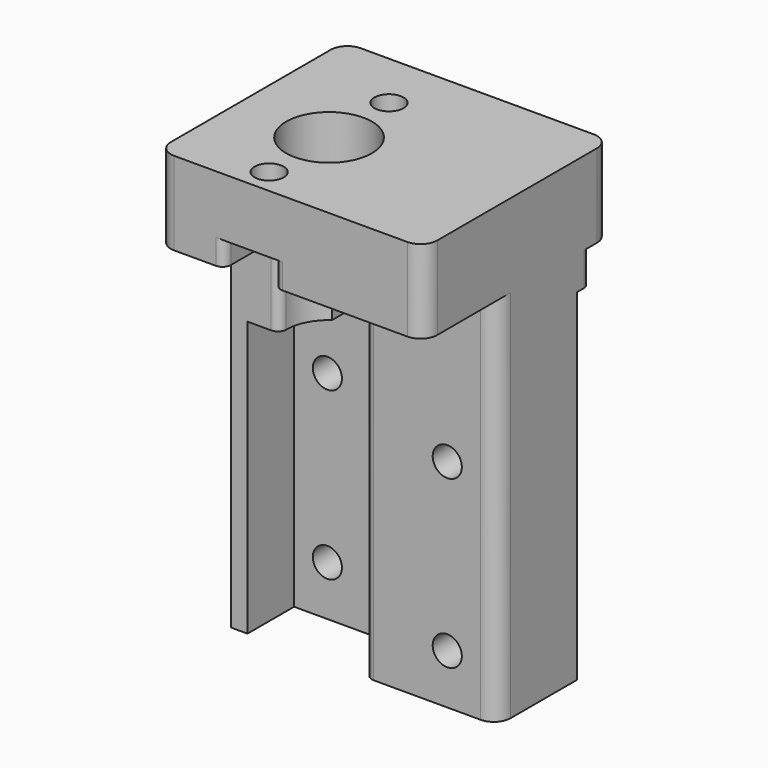
from build123d import *

# Parameters (mm, degrees)
PAD001_DEPTH      = 16
PAD001_DEPTH_BACK = 16
SKETCH014_W       = 15
SKETCH014_H       = 6
POCKET_DEPTH      = 28.001
SKETCH012_R       = 5.15
POCKET001_DEPTH   = 55.001
SKETCH013_R       = 1.75
POCKET002_DEPTH   = 7
SKETCH008_W       = 7.907674
SKETCH008_H       = 14
POCKET003_DEPTH   = 33
SKETCH007_R       = 1.75
POCKET004_DEPTH   = 17.001
SKETCH015_W       = 50.47
SKETCH015_H       = 40
POCKET005_DEPTH   = 2
FILLET_R          = 2
FILLET001_R       = 1
FILLET002_R       = 1
FILLET003_R       = 1
FILLET004_R       = 2


with BuildPart() as part:
    # Sketch005 → Pad001 (new body, two sides)
    with BuildSketch(Plane.YZ) as pad001_sk:
        Polygon((0, -20), (0, 25), (3, 25), (3, 35), (-25, 35), (-25, 25), (-14, 25), (-14, -20), align=None)
    extrude(amount=PAD001_DEPTH)
    extrude(pad001_sk.sketch, amount=-PAD001_DEPTH_BACK)

    # Sketch014 (on Face5 of Pad001) → Pocket (cut, through all)
    with BuildSketch(Plane(origin=(0, -25, 0), x_dir=(0, 0, -1), z_dir=(0, -1, 0))):
        with Locations((-20.5, -5)):
            Rectangle(SKETCH014_W, SKETCH014_H)
    extrude(amount=-POCKET_DEPTH, mode=Mode.SUBTRACT)

    # Sketch012 → Pocket001 (cut, through all)
    with BuildSketch(Plane(origin=(0, 0, 35), x_dir=(0, -1, 0), z_dir=(0, 0, 1))):
        with Locations((13, -5)):
            Circle(SKETCH012_R)
    extrude(amount=-POCKET001_DEPTH, mode=Mode.SUBTRACT)

    # Sketch013 → Pocket002 (cut)
    with BuildSketch(Plane(origin=(0, 0, 35), x_dir=(0, -1, 0), z_dir=(0, 0, 1))):
        with Locations((4, -5)):
            Circle(SKETCH013_R)
        with Locations((22, -5)):
            Circle(SKETCH013_R)
    extrude(amount=-POCKET002_DEPTH, mode=Mode.SUBTRACT)

    # Sketch008 (on Face9 of Pocket002) → Pocket003 (cut)
    with BuildSketch(Plane.YX.offset(20)):
        with Locations((-10.953837, -7)):
            Rectangle(SKETCH008_W, SKETCH008_H)
    extrude(amount=-POCKET003_DEPTH, mode=Mode.SUBTRACT)

    # Sketch007 (on Face21 of Pocket003) → Pocket004 (cut, through all)
    with BuildSketch(Plane(origin=(0, -14, 0), x_dir=(0, 0, -1), z_dir=(0, -1, 0))):
        with Locations((-6, 10)):
            Circle(SKETCH007_R)
        with Locations((14, 10)):
            Circle(SKETCH007_R)
        with Locations((-6, -10)):
            Circle(SKETCH007_R)
        with Locations((14, -10)):
            Circle(SKETCH007_R)
    extrude(amount=-POCKET004_DEPTH, mode=Mode.SUBTRACT)

    # Sketch015 (on Face1 of Pocket004) → Pocket005 (cut)
    with BuildSketch(Plane.ZX):
        with Locations((-4.235, 0)):
            Rectangle(SKETCH015_W, SKETCH015_H)
    extrude(amount=-POCKET005_DEPTH, mode=Mode.SUBTRACT)

    # Fillet
    fillet_edges = [part.edges().sort_by_distance(p)[0] for p in [
        (16, 3, 30),
        (-16, 3, 30),
        (-16, -25, 30),
        (16, -25, 30),
    ]]
    fillet(fillet_edges, radius=FILLET_R)

    # Fillet001
    fillet001_edges = [part.edges().sort_by_distance(p)[0] for p in [
        (0.05198, -14, 2.5),
        (-10.05198, -14, 19),
    ]]
    fillet(fillet001_edges, radius=FILLET001_R)

    # Fillet002
    fillet002_edges = [part.edges().sort_by_distance(p)[0] for p in [
        (-2, -25, 26.5),
        (-8, -25, 26.5),
    ]]
    fillet(fillet002_edges, radius=FILLET002_R)

    # Fillet003
    fillet003_edges = [part.edges().sort_by_distance(p)[0] for p in [
        (-16, 0, 23),
        (16, 0, 23),
    ]]
    fillet(fillet003_edges, radius=FILLET003_R)

    # Fillet004
    fillet004_edges = [part.edges().sort_by_distance(p)[0] for p in [
        (16, -14, 2.5),
    ]]
    fillet(fillet004_edges, radius=FILLET004_R)


solid = part.part
